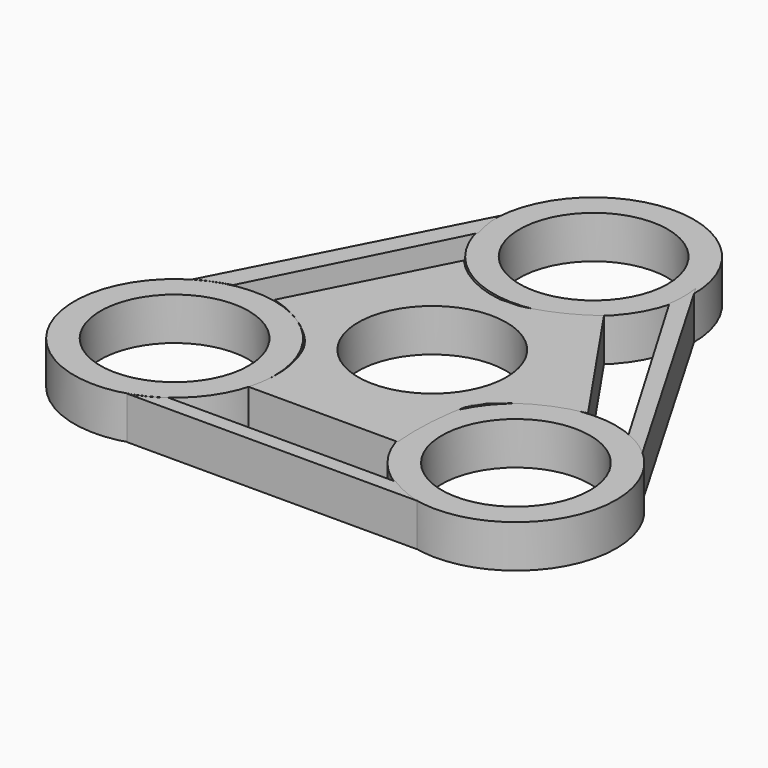
from build123d import *

# Parameters (mm, degrees)
F0_R      = 14.9225
F1_DEPTH  = 6.35
F2_R      = 11.0236
F3_DEPTH  = 25.4
F4_R      = 14.9225
F5_DEPTH  = 6.35
F6_R      = 11.0236
F7_DEPTH  = 25.4
F8_R      = 11.0236
F9_DEPTH  = 25.4
F10_R     = 11.0236
F11_DEPTH = 25.4
F13_DEPTH = 6.35
F15_DEPTH = 6.35
F16_R     = 11.0236
F17_DEPTH = 25.4


with BuildPart() as f1:
    # F0 (on Top) → F1 (new body)
    with BuildSketch(Plane.XY):
        Circle(F0_R)
    extrude(amount=F1_DEPTH)

    # F2 (on face) → F3 (cut)
    with BuildSketch(Plane.XY.offset(6.35)):
        Circle(F2_R)
    extrude(amount=-F3_DEPTH, mode=Mode.SUBTRACT)


with BuildPart() as f5:
    # F4 (on Top) → F5 (new body)
    with BuildSketch(Plane.XY):
        with Locations((0, 29.995130375)):
            Circle(F4_R)
    extrude(amount=F5_DEPTH)

    # F10 (on face) → F11 (cut)
    with BuildSketch(Plane.XY.offset(6.35)):
        with Locations((0, 29.995130375)):
            Circle(F10_R)
    extrude(amount=-F11_DEPTH, mode=Mode.SUBTRACT)


with BuildPart() as f5b:
    # F4 (on Top) → F5, piece 2 (new body)
    with BuildSketch(Plane.XY):
        with Locations((25.3502020365, -16.1362032066)):
            Circle(F4_R)
    extrude(amount=F5_DEPTH)

    # F8 (on face) → F9 (cut)
    with BuildSketch(Plane.XY.offset(6.35)):
        with Locations((25.3502020365, -16.1362032066)):
            Circle(F8_R)
    extrude(amount=-F9_DEPTH, mode=Mode.SUBTRACT)


with BuildPart() as f5c:
    # F4 (on Top) → F5, piece 3 (new body)
    with BuildSketch(Plane.XY):
        with Locations((-25.1612309388, -16.4484566616)):
            Circle(F4_R)
    extrude(amount=F5_DEPTH)

    # F6 (on face) → F7 (cut)
    with BuildSketch(Plane.XY.offset(6.35)):
        with Locations((-25.1612309388, -16.4484566616)):
            Circle(F6_R)
    extrude(amount=-F7_DEPTH, mode=Mode.SUBTRACT)


with BuildPart() as f13:
    # F12 (on Top) → F13 (new body)
    with BuildSketch(Plane.XY):
        with BuildLine():
            ThreePointArc((-14.1815754256, 26.2724870336), (-14.7397710347, 28.6940485386), (-14.9400411174, 31.1710294336))
            Line((-14.9400411174, 31.1710294336), (-32.7839441597, -3.5299733281))
            ThreePointArc((-32.7839441597, -3.5299733281), (-30.5574207478, -2.499721989), (-28.2273480603, -1.7318772152))
            Line((-28.2273480603, -1.7318772152), (-14.1815754256, 26.2724870336))
        make_face()
    extrude(amount=F13_DEPTH)


with BuildPart() as f13b:
    # F12 (on Top) → F13, piece 2 (new body)
    with BuildSketch(Plane.XY):
        with BuildLine():
            ThreePointArc((14.2428381354, 31.1710294336), (14.4295970247, 28.7217582336), (14.2428381354, 26.2724870336))
            Line((14.2428381354, 26.2724870336), (31.0912895948, -2.3684781045))
            ThreePointArc((31.0912895948, -2.3684781045), (33.2739220465, -3.4986218308), (35.2378445914, -4.9764978401))
            Line((35.2378445914, -4.9764978401), (14.2428381354, 31.1710294336))
        make_face()
    extrude(amount=F13_DEPTH)


with BuildPart() as f13c:
    # F12 (on Top) → F13, piece 3 (new body)
    with BuildSketch(Plane.XY):
        with BuildLine():
            ThreePointArc((-16.4225419218, -28.5508202595), (-18.5063560658, -29.8586993828), (-20.7987943693, -30.7517591864))
            Line((-20.7987943693, -30.7517591864), (22.3186481744, -30.7517591864))
            ThreePointArc((22.3186481744, -30.7517591864), (19.7931554786, -29.8209328805), (17.4201057744, -28.5508202595))
            Line((17.4201057744, -28.5508202595), (-16.4225419218, -28.5508202595))
        make_face()
    extrude(amount=F13_DEPTH)


with BuildPart() as f15:
    # F14 (on Top) → F15 (new body)
    with BuildSketch(Plane.XY):
        with BuildLine():
            ThreePointArc((0, 14.6820113793), (5.3636601677, 16.3249040631), (10.2038477654, 19.1604870336))
            Line((10.2038477654, 19.1604870336), (24.0828443311, -1.1592473627))
            ThreePointArc((24.0828443311, -1.1592473627), (17.5196006294, -3.4900052057), (12.157075972, -7.9343194733))
            ThreePointArc((12.157075972, -7.9343194733), (11.2447112538, -14.2314186522), (11.3169401884, -20.5938592553))
            Line((11.3169401884, -20.5938592553), (-10.8404997736, -20.5938592553))
            ThreePointArc((-10.8404997736, -20.5938592553), (-10.3350678261, -14.152459729), (-12.4231744558, -8.0379769206))
            ThreePointArc((-12.4231744558, -8.0379769206), (-13.0543857953, 7.0636248062), (0, 14.6820113793))
        make_face()
        with BuildLine():
            Line((24.0828443311, -1.1592473627), (10.2038477654, 19.1604870336))
            ThreePointArc((10.2038477654, 19.1604870336), (5.3636601677, 16.3249040631), (0, 14.6820113793))
            ThreePointArc((0, 14.6820113793), (12.7613253908, 6.9660800211), (12.157075972, -7.9343194733))
            ThreePointArc((12.157075972, -7.9343194733), (17.5196006294, -3.4900052057), (24.0828443311, -1.1592473627))
        make_face()
        with BuildLine():
            ThreePointArc((12.157075972, -7.9343194733), (12.7613253908, 6.9660800211), (0, 14.6820113793))
            ThreePointArc((0, 14.6820113793), (-6.1357920612, 16.0634784709), (-11.1745101995, 19.8274810037))
            Line((-11.1745101995, 19.8274810037), (-22.1475167638, -1.5871050276))
            ThreePointArc((-22.1475167638, -1.5871050276), (-16.7981998833, -4.0781950009), (-12.4231744558, -8.0379769206))
            ThreePointArc((-12.4231744558, -8.0379769206), (-0.1042111395, -14.8245162682), (12.157075972, -7.9343194733))
        make_face()
        with BuildLine():
            ThreePointArc((0, 14.6820113793), (-13.0543857953, 7.0636248062), (-12.4231744558, -8.0379769206))
            ThreePointArc((-12.4231744558, -8.0379769206), (-16.7981998833, -4.0781950009), (-22.1475167638, -1.5871050276))
            Line((-22.1475167638, -1.5871050276), (-11.1745101995, 19.8274810037))
            ThreePointArc((-11.1745101995, 19.8274810037), (-6.1357920612, 16.0634784709), (0, 14.6820113793))
        make_face(mode=Mode.SUBTRACT)
        with BuildLine():
            ThreePointArc((11.3169401884, -20.5938592553), (11.2447112538, -14.2314186522), (12.157075972, -7.9343194733))
            ThreePointArc((12.157075972, -7.9343194733), (-0.1042111395, -14.8245162682), (-12.4231744558, -8.0379769206))
            ThreePointArc((-12.4231744558, -8.0379769206), (-10.3350678261, -14.152459729), (-10.8404997736, -20.5938592553))
            Line((-10.8404997736, -20.5938592553), (11.3169401884, -20.5938592553))
        make_face()
    extrude(amount=F15_DEPTH)

    # F16 (on face) → F17 (cut)
    with BuildSketch(Plane.XY.offset(6.35)):
        Circle(F16_R)
    extrude(amount=-F17_DEPTH, mode=Mode.SUBTRACT)


solid = Compound([f1.part, f5.part, f5b.part, f5c.part, f13.part, f13b.part, f13c.part, f15.part])
